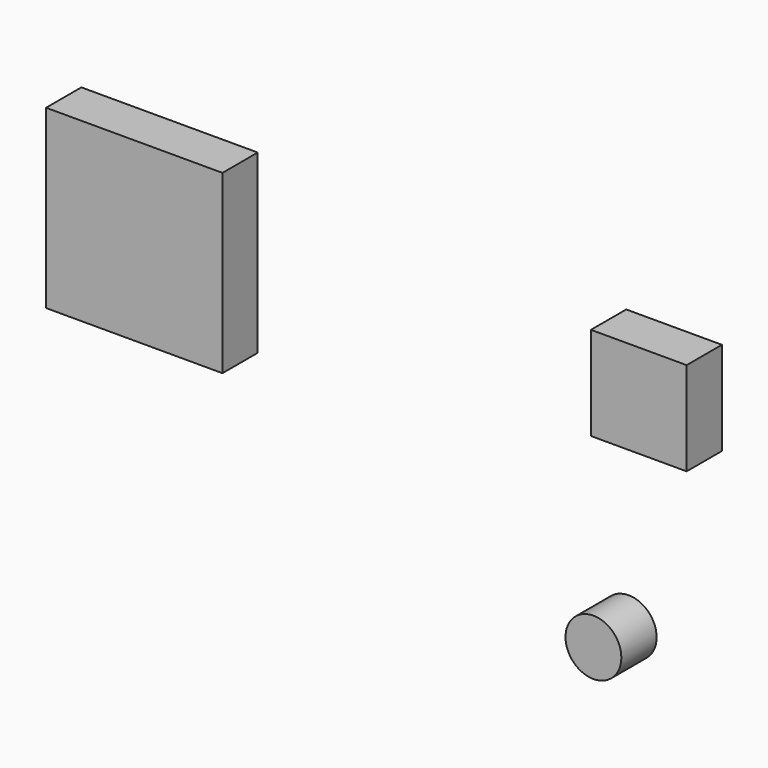
from build123d import *

# Parameters (mm, degrees)
F0_W     = 70.721321
F0_H     = 67.84005
F1_DEPTH = 25
F2_W     = 100
F2_H     = 100
F3_DEPTH = 25
F4_W     = 54.25863
F4_H     = 53.02266
F5_DEPTH = 25
F6_R     = 15.829205
F7_DEPTH = 25


with BuildPart() as f1:
    # F0 (on Front) → F1 (new body)
    with BuildSketch(Plane.XZ):
        with Locations((-127.561395, 28.1989)):
            Rectangle(F0_W, F0_H)
    extrude(amount=F1_DEPTH)


with BuildPart() as f3:
    # F2 (on Front) → F3 (new body)
    with BuildSketch(Plane.XZ):
        with Locations((-223.168355, 50)):
            Rectangle(F2_W, F2_H)
    extrude(amount=F3_DEPTH)


with BuildPart() as f5:
    # F4 (on Front) → F5 (new body)
    with BuildSketch(Plane.XZ):
        with Locations((62.88784, 63.103292)):
            Rectangle(F4_W, F4_H)
    extrude(amount=F5_DEPTH)


with BuildPart() as f7:
    # F6 (on Front) → F7 (new body)
    with BuildSketch(Plane.XZ):
        with Locations((37.162781, -68.408214)):
            Circle(F6_R)
    extrude(amount=F7_DEPTH)


solid = Compound([f3.part, f5.part, f7.part])
